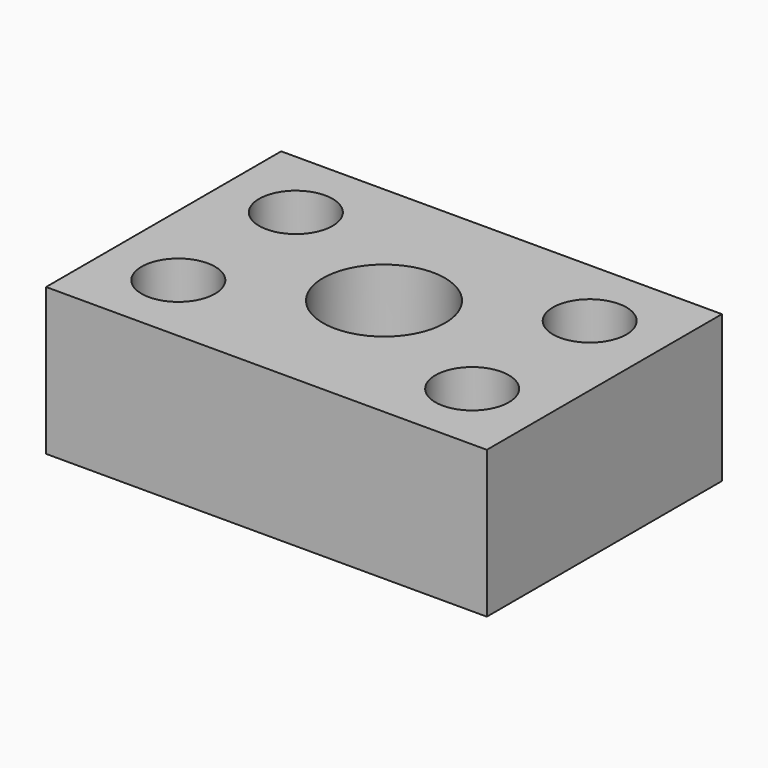
from build123d import *

# Parameters (mm, degrees)
F0_W     = 60
F0_H     = 40
F0_R     = 5
F0_R_2   = 8.3
F0_R_3   = 2.25
F1_DEPTH = 20
F2_START = 5
F2_DEPTH = 15


with BuildPart() as f1:
    # F0 (on Top) → F1 (new body)
    with BuildSketch(Plane.XY):
        Rectangle(F0_W, F0_H)
        with Locations((-20, -10)):
            Circle(F0_R, mode=Mode.SUBTRACT)
        with Locations((20, -10)):
            Circle(F0_R, mode=Mode.SUBTRACT)
        with Locations((-20, 10)):
            Circle(F0_R, mode=Mode.SUBTRACT)
        Circle(F0_R_2, mode=Mode.SUBTRACT)
        with Locations((20, 10)):
            Circle(F0_R, mode=Mode.SUBTRACT)
        with Locations((-20, 10)):
            Circle(F0_R)
        with Locations((-20, 10)):
            Circle(F0_R_3, mode=Mode.SUBTRACT)
        with Locations((20, 10)):
            Circle(F0_R)
        with Locations((20, 10)):
            Circle(F0_R_3, mode=Mode.SUBTRACT)
        with Locations((20, -10)):
            Circle(F0_R)
        with Locations((20, -10)):
            Circle(F0_R_3, mode=Mode.SUBTRACT)
        with Locations((-20, -10)):
            Circle(F0_R)
        with Locations((-20, -10)):
            Circle(F0_R_3, mode=Mode.SUBTRACT)
    extrude(amount=F1_DEPTH)

    # F0 (on Top) → F2 (cut)
    with BuildSketch(Plane.XY.offset(F2_START)):
        with Locations((-20, -10)):
            Circle(F0_R)
        with Locations((-20, -10)):
            Circle(F0_R_3, mode=Mode.SUBTRACT)
        with Locations((20, -10)):
            Circle(F0_R)
        with Locations((20, -10)):
            Circle(F0_R_3, mode=Mode.SUBTRACT)
        with Locations((-20, 10)):
            Circle(F0_R)
        with Locations((-20, 10)):
            Circle(F0_R_3, mode=Mode.SUBTRACT)
        with Locations((20, 10)):
            Circle(F0_R)
        with Locations((20, 10)):
            Circle(F0_R_3, mode=Mode.SUBTRACT)
    extrude(amount=F2_DEPTH, mode=Mode.SUBTRACT)


solid = f1.part
